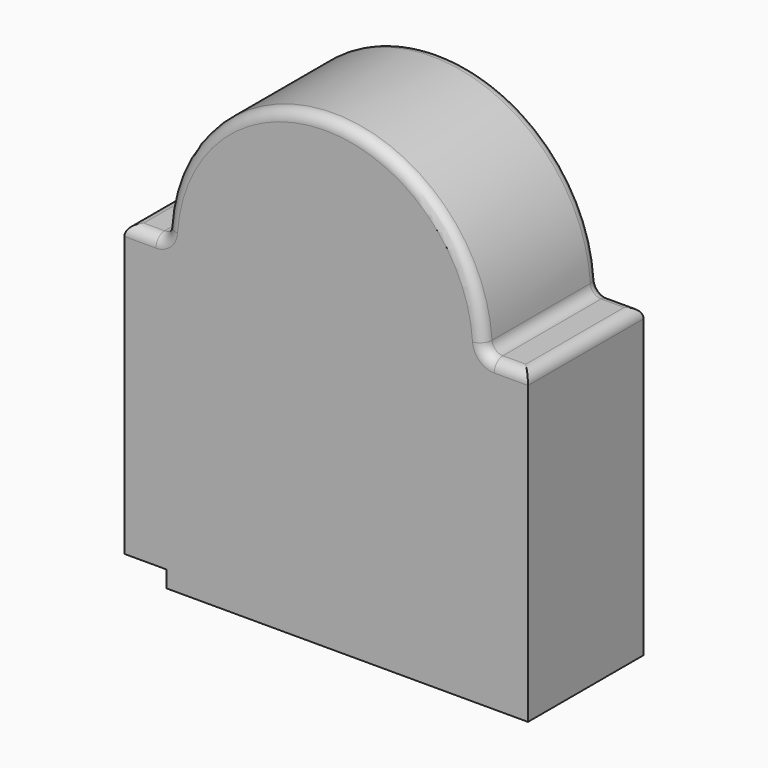
from build123d import *

# Parameters (mm, degrees)
F0_W     = 29.536575
F0_H     = 204.079225
F0_W_2   = 31.127944
F0_H_2   = 215.79039
F1_DEPTH = 101.6
F2_R     = 7.62


with BuildPart() as f1:
    # F0 (on Front) → F1 (new body)
    with BuildSketch(Plane.XZ):
        Polygon((111.522347, 107.895195), (-111.522347, 107.895195), (-111.522347, -96.18403), (-111.522347, -107.895195), (111.522347, -107.895195), align=None)
        with BuildLine():
            ThreePointArc((111.522347, 107.895195), (0, 219.417542), (-111.522347, 107.895195))
            Line((-111.522347, 107.895195), (111.522347, 107.895195))
        make_face()
        with Locations((-126.290634, 5.855583)):
            Rectangle(F0_W, F0_H)
        with Locations((127.086319, 0)):
            Rectangle(F0_W_2, F0_H_2)
    extrude(amount=F1_DEPTH)

    # F2
    f2_edges = [f1.edges().sort_by_distance(p)[0] for p in [
        (-141.058922, -50.8, 107.895195),
        (-126.290634, 0, 107.895195),
        (-126.290634, -101.6, 107.895195),
        (0, -101.6, 219.417542),
        (127.086319, -101.6, 107.895195),
        (142.650291, -50.8, 107.895195),
        (111.522347, -50.8, 107.895195),
        (-111.522347, -50.8, 107.895195),
        (0, 0, 219.417542),
        (127.086319, 0, 107.895195),
    ]]
    fillet(f2_edges, radius=F2_R)


solid = f1.part
